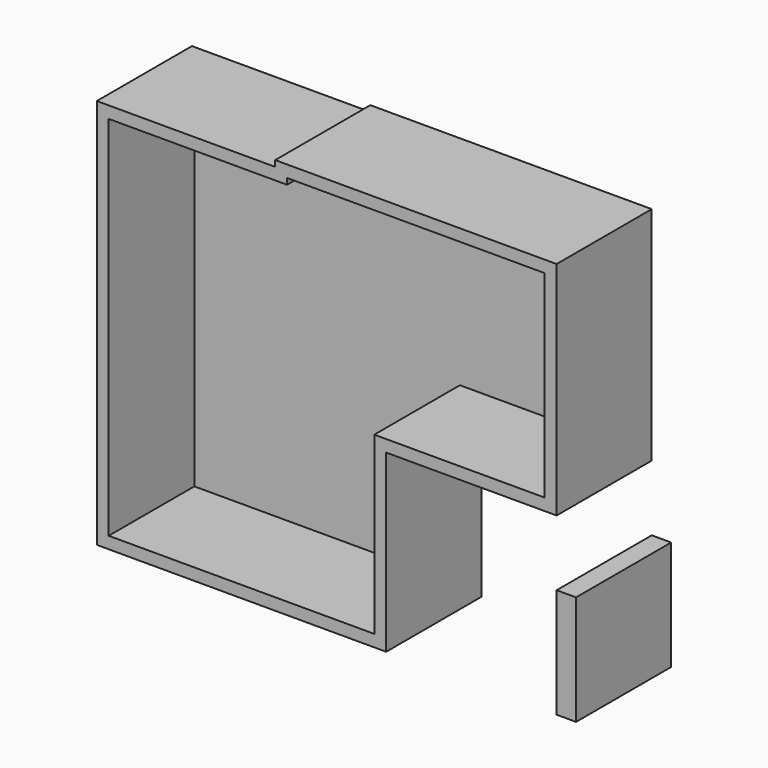
from build123d import *

# Parameters (mm, degrees)
F0_W     = 23.7066559494
F0_H     = 46.0103526711
F1_DEPTH = 25.4
F0_W_2   = 4.1480958462
F0_H_2   = 23.419957608
F2_T     = -2.54


with BuildPart() as f1:
    # F0 (on Front) → F1 (new body)
    with BuildSketch(Plane.XZ):
        Polygon((-23.7066559494, 84.7575515509), (-23.7066559494, 83.4757313132), (0, 83.4757313132), (0, 37.4653786421), (36.4066660404, 37.4653786421), (36.4066660404, 84.7575515509), align=None)
        Polygon((-23.7066559494, 83.4757313132), (-61.8066713214, 83.4757313132), (-61.8066713214, 0), (0, 0), (0, 37.4653786421), (-23.7066559494, 37.4653786421), align=None)
        with Locations((-11.8533279747, 60.4705549777)):
            Rectangle(F0_W, F0_H)
    extrude(amount=F1_DEPTH)

    # F2
    f2_openings = [f1.faces().sort_by_distance(p)[0] for p in [
        (-18.586419, -25.4, 46.750427),
    ]]
    offset(amount=F2_T, openings=f2_openings, kind=Kind.INTERSECTION)


with BuildPart() as f1b:
    # F0 (on Front) → F1, piece 2 (new body)
    with BuildSketch(Plane.XZ):
        with Locations((38.4807139635, 11.709978804)):
            Rectangle(F0_W_2, F0_H_2)
    extrude(amount=F1_DEPTH)


solid = Compound([f1.part, f1b.part])
